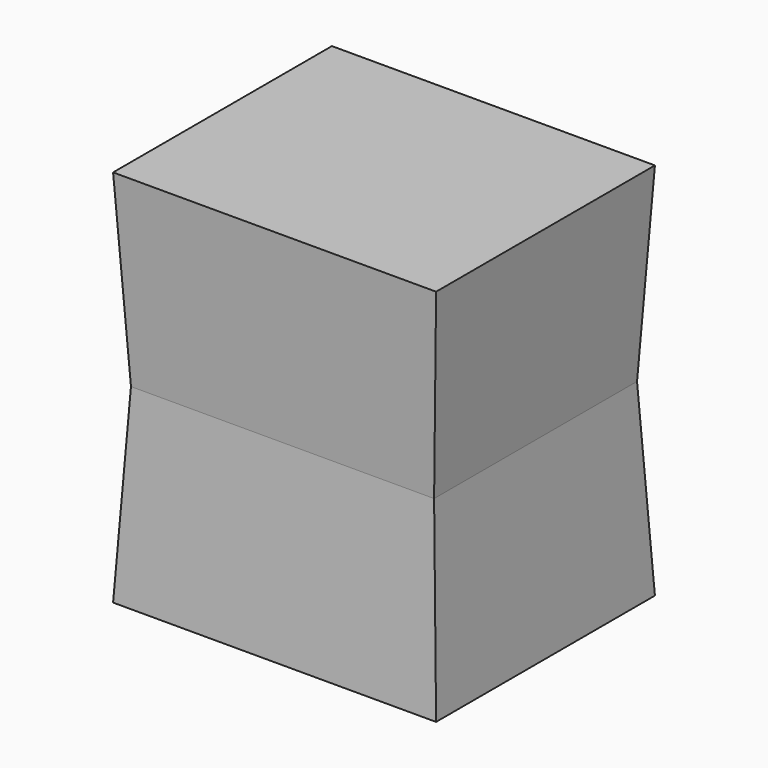
from build123d import *

# Parameters (mm, degrees)
F0_W     = 40.0212407112
F0_H     = 33.4871709347
F1_DEPTH = 25
F1_TAPER = -3


with BuildPart() as f1:
    # F0 (on Top) → F1 (new body, symmetric)
    with BuildSketch(Plane.XY):
        with Locations((20.0106203556, 16.7435854673)):
            Rectangle(F0_W, F0_H)
        with Locations((20.0106203556, 16.7435854673)):
            Rectangle(F0_W, F0_H)
    extrude(amount=F1_DEPTH, both=True, taper=F1_TAPER)


solid = f1.part
